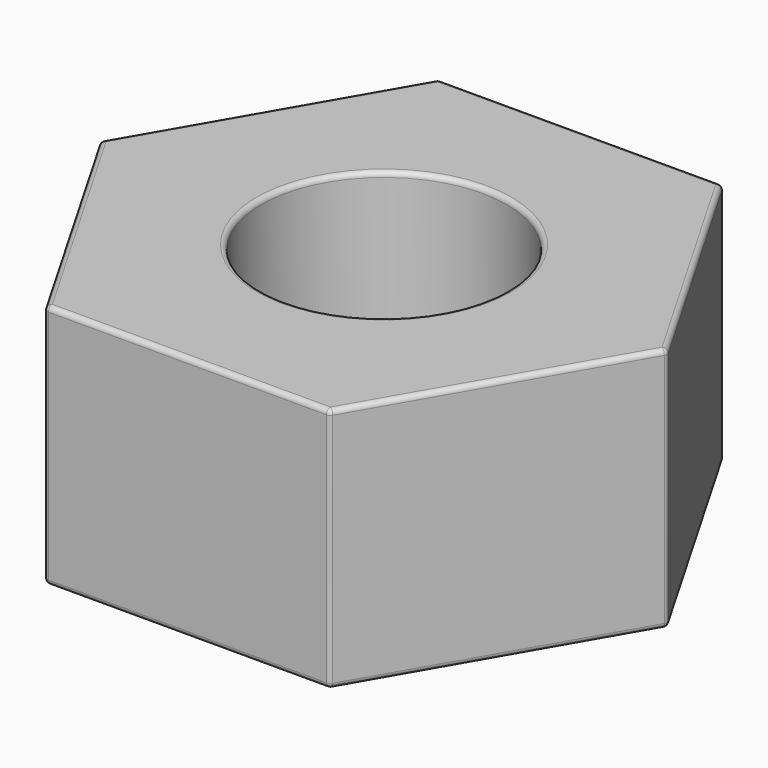
from build123d import *

# Parameters (mm, degrees)
F0_R     = 2.5
F1_DEPTH = 5
F2_R     = 0.1


with BuildPart() as f1:
    # F0 (on Top) → F1 (new body)
    with BuildSketch(Plane.XY):
        Polygon((2.886751, -5), (5.773503, 0), (2.886751, 5), (-2.886751, 5), (-5.773503, 0), (-2.886751, -5), align=None)
        Circle(F0_R, mode=Mode.SUBTRACT)
    extrude(amount=-F1_DEPTH)

    # F2
    f2_edges = [f1.edges().sort_by_distance(p)[0] for p in [
        (4.330127, -2.5, -5),
        (5.773503, 0, -2.5),
        (4.330127, 2.5, -5),
        (0, -5, -5),
        (-4.330127, -2.5, 0),
        (0, -5, 0),
        (4.330127, -2.5, 0),
        (4.330127, 2.5, 0),
        (0, 5, 0),
        (-4.330127, 2.5, 0),
        (-2.5, 0, 0),
        (2.886751, -5, -2.5),
        (-2.886751, -5, -2.5),
        (2.886751, 5, -2.5),
        (-2.886751, 5, -2.5),
        (-5.773503, 0, -2.5),
        (-4.330127, 2.5, -5),
        (-4.330127, -2.5, -5),
    ]]
    fillet(f2_edges, radius=F2_R)


solid = f1.part
